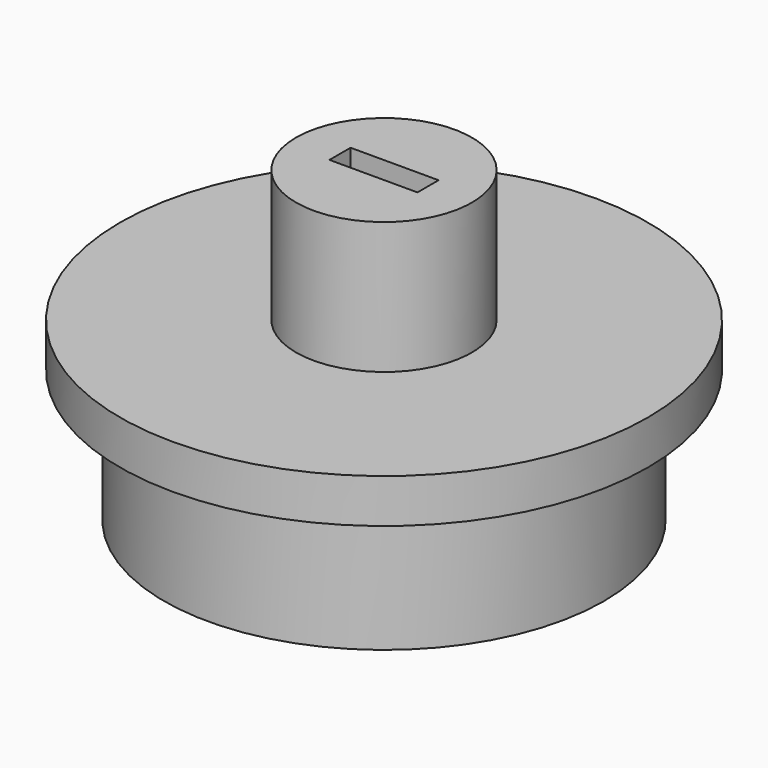
from build123d import *

# Parameters (mm, degrees)
F2_W     = 10
F2_H     = 3
F3_DEPTH = 3
F4_W     = 3
F4_H     = 3
F5_DEPTH = 40


with BuildPart() as f1:
    # F0 (on Front) → F1 (revolve)
    with BuildSketch(Plane.XZ):
        Polygon((0, 13.734525), (-1.5, 13.734525), (-10, 13.734525), (-10, -1.265475), (-25, -1.265475), (-30, -1.265475), (-30, -6.265475), (-25, -6.265475), (-25, -21.265475), (0, -21.265475), (0, 9.622872), align=None)
    revolve(axis=Axis((0, 0, 2.372262), (0, 0, -1)))

    # F2 (on face) → F3 (cut)
    with BuildSketch(Plane.XY.offset(13.734525)):
        Rectangle(F2_W, F2_H)
    extrude(amount=-F3_DEPTH, mode=Mode.SUBTRACT)

    # F4 (on face) → F5 (cut)
    with BuildSketch(Plane.XY.offset(10.734525)):
        Rectangle(F4_W, F4_H)
    extrude(amount=-F5_DEPTH, mode=Mode.SUBTRACT)


solid = f1.part
